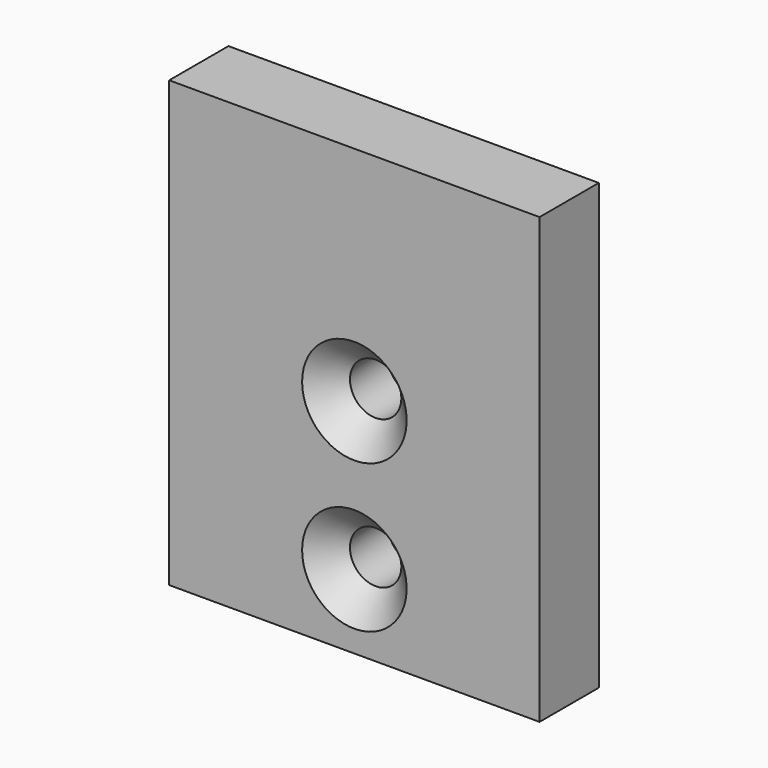
from build123d import *

# Parameters (mm, degrees)
F0_W           = 31.75
F0_H           = 38.1
F1_DEPTH       = 3.175
F3_D           = 4.4
F3_DEPTH       = 12.7
F3_CSINK_D     = 8.96
F3_CSINK_ANGLE = 90
F3_TIP         = 1.3218933619


with BuildPart() as f1:
    # F0 (on Front) → F1 (new body, symmetric)
    with BuildSketch(Plane.XZ):
        Rectangle(F0_W, F0_H)
    extrude(amount=F1_DEPTH, both=True)

    # F3
    with Locations(Plane.XZ.offset(3.175)):
        with Locations((0, 0), (0, -12.7)):
            CounterSinkHole(F3_D / 2, F3_CSINK_D / 2, depth=F3_DEPTH, counter_sink_angle=F3_CSINK_ANGLE)
            with Locations((0, 0, -(F3_DEPTH + F3_TIP / 2))):  # 118° drill point
                Cone(0, F3_D / 2, F3_TIP, mode=Mode.SUBTRACT)


solid = f1.part
